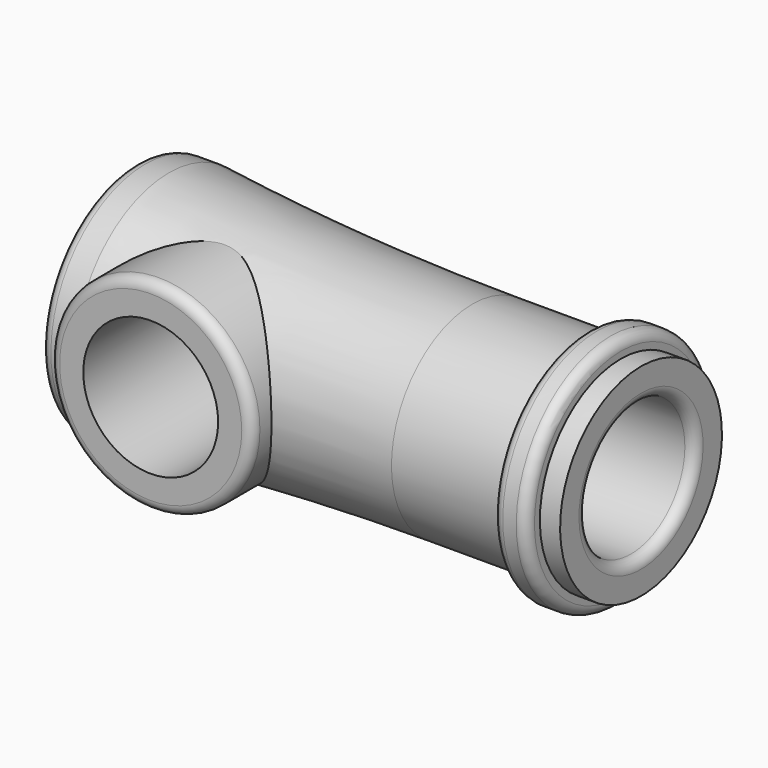
from build123d import *

# Parameters (mm, degrees)
F2_R     = 15
F3_DEPTH = 19
F4_R     = 10
F5_DEPTH = 25
F6_R     = 1.5


with BuildPart() as f1:
    # F0 (on Front) → F1 (revolve)
    with BuildSketch(Plane.XZ):
        with BuildLine():
            Line((0, 17.5), (0, 0))
            Line((0, 0), (60, 0))
            Line((60, 0), (60, 10))
            Line((60, 10), (75, 10))
            Line((75, 10), (75, 15))
            Line((75, 15), (72, 15))
            Line((72, 15), (72, 17.5))
            Line((72, 17.5), (67, 17.5))
            Line((67, 17.5), (67, 15))
            Line((67, 15), (50, 15))
            ThreePointArc((50, 15), (27.465305, 15.625482), (5, 17.5))
            Line((5, 17.5), (0, 17.5))
        make_face()
    revolve(axis=Axis((30, 0, 0), (1, 0, 0)))

    # F2 (on Front) → F3 (join)
    with BuildSketch(Plane.XZ):
        with Locations((17.5, 0)):
            Circle(F2_R)
    extrude(amount=F3_DEPTH)

    # F4 (on face) → F5 (cut)
    with BuildSketch(Plane.XZ.offset(19)):
        with Locations((17.5, 0)):
            Circle(F4_R)
    extrude(amount=-F5_DEPTH, mode=Mode.SUBTRACT)

    # F6
    f6_edges = [f1.edges().sort_by_distance(p)[0] for p in [
        (0, 0, -17.5),
        (2.5, -19, 0),
        (67, 0, -17.5),
        (72, 0, -17.5),
        (75, 0, -10),
    ]]
    fillet(f6_edges, radius=F6_R)


solid = f1.part
